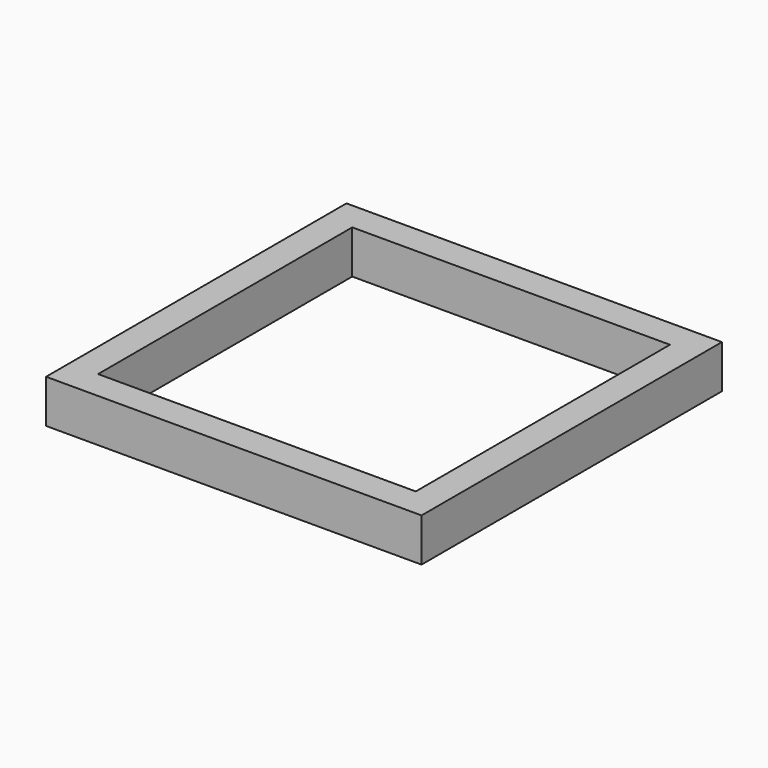
from build123d import *

# Parameters (mm, degrees)
SKETCH_W     = 65
SKETCH_H     = 65
PAD_DEPTH    = 3.75
SKETCH001_W  = 55
SKETCH001_H  = 55
POCKET_DEPTH = 7.501


with BuildPart() as part:
    # Sketch → Pad (new body, symmetric)
    with BuildSketch(Plane.XY):
        with Locations((-6.193032, -10.750862)):
            Rectangle(SKETCH_W, SKETCH_H)
    extrude(amount=PAD_DEPTH, both=True)

    # Sketch001 (on Face5 of Pad) → Pocket (cut, through all)
    with BuildSketch(Plane(origin=(0, 0, -3.75), x_dir=(1, 0, 0), z_dir=(0, 0, -1))):
        with Locations((-6.193032, 10.750862)):
            Rectangle(SKETCH001_W, SKETCH001_H)
    extrude(amount=-POCKET_DEPTH, mode=Mode.SUBTRACT)


solid = part.part
